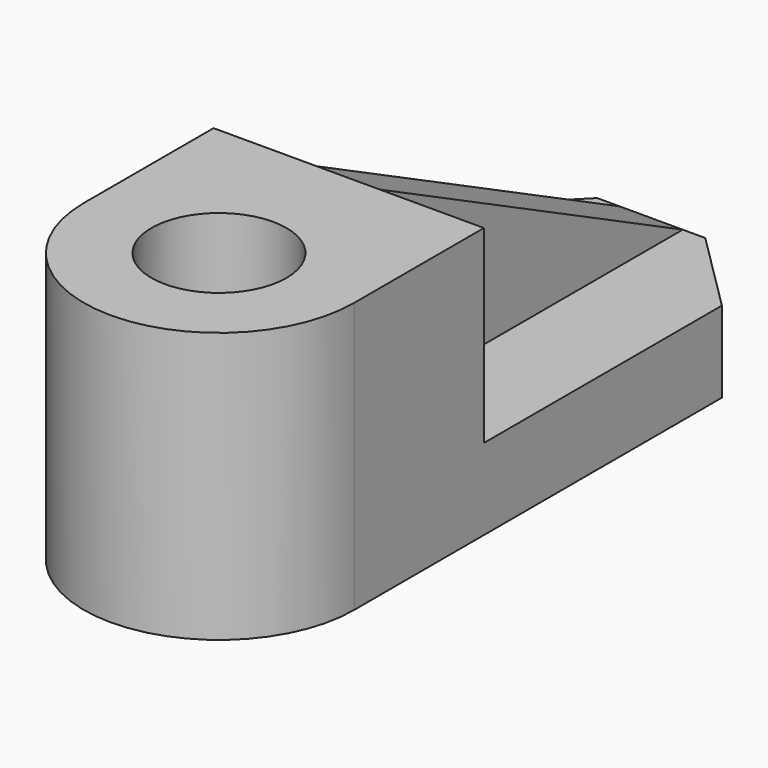
from build123d import *

# Parameters (mm, degrees)
F2_DEPTH = 228.6
F3_DEPTH = 762
F4_W     = 177.8
F4_H     = 1067.2513021181
F5_DEPTH = 533.4
F7_DEPTH = 3810
F8_R     = 190.5
F9_DEPTH = 1143


with BuildPart() as f2:
    # F0 (on Top) → F2 (new body)
    with BuildSketch(Plane.XY):
        Polygon((23.5545643418, 444.0917239854), (-281.2454356582, 444.0917239854), (-508.6393237951, 215.4917239854), (-508.6393237951, -1079.9082760146), (253.3606762049, -1079.9082760146), (253.3606762049, 215.4917239854), align=None)
    extrude(amount=F2_DEPTH)

    # F1 (on Top) → F3 (join)
    with BuildSketch(Plane.XY):
        with BuildLine():
            Line((-508.6393237951, -1080.3595781326), (253.3606762049, -1080.3595781326))
            ThreePointArc((253.3606762049, -1080.3595781326), (-127.6393237951, -699.3595781326), (-508.6393237951, -1080.3595781326))
        make_face()
        with BuildLine():
            ThreePointArc((-508.6393237951, -1080.3595781326), (-127.6393237951, -1461.3595781326), (253.3606762049, -1080.3595781326))
            Line((253.3606762049, -1080.3595781326), (-508.6393237951, -1080.3595781326))
        make_face()
        with BuildLine():
            ThreePointArc((-508.6393237951, -1080.3595781326), (-127.6393237951, -699.3595781326), (253.3606762049, -1080.3595781326))
            Line((253.3606762049, -1080.3595781326), (253.3606762049, -623.1595781326))
            Line((253.3606762049, -623.1595781326), (-508.6393237951, -623.1595781326))
            Line((-508.6393237951, -623.1595781326), (-508.6393237951, -1080.3595781326))
        make_face()
    extrude(amount=F3_DEPTH)

    # F4 (on face) → F5 (join)
    with BuildSketch(Plane.XY.offset(228.6)):
        with Locations((-128.8454356582, -89.5339270736)):
            Rectangle(F4_W, F4_H)
    extrude(amount=F5_DEPTH)

    # F6 (on face) → F7 (cut)
    with BuildSketch(Plane.YZ.offset(-39.9454356582)):
        Polygon((444.0917239854, 762), (-623.1595781326, 762), (444.0917239854, 228.6), align=None)
    extrude(amount=-F7_DEPTH, mode=Mode.SUBTRACT)

    # F8 (on face) → F9 (cut)
    with BuildSketch(Plane.XY.offset(762)):
        with Locations((-127.6393237951, -1080.3595781326)):
            Circle(F8_R)
    extrude(amount=-F9_DEPTH, mode=Mode.SUBTRACT)


solid = f2.part
